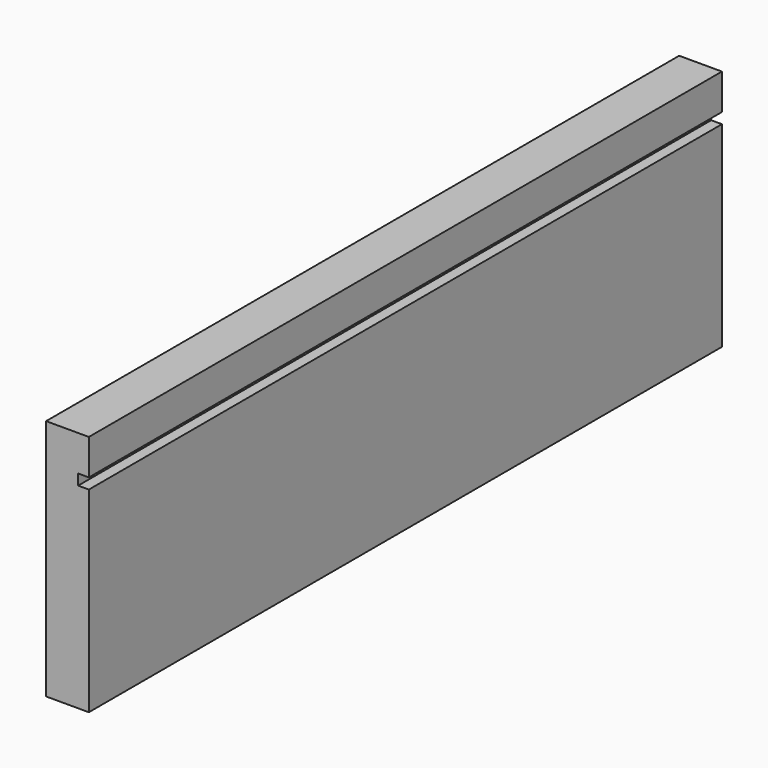
from build123d import *

# Parameters (mm, degrees)
F0_W     = 222
F0_H     = 68
F1_DEPTH = 12
F2_W     = 3
F2_H     = 3
F3_DEPTH = 31343.6


with BuildPart() as f1:
    # F0 (on Right) → F1 (new body)
    with BuildSketch(Plane.YZ):
        Rectangle(F0_W, F0_H)
    extrude(amount=F1_DEPTH)

    # F2 (on face) → F3 (cut)
    with BuildSketch(Plane.XZ.offset(111)):
        with Locations((10.5, 22.5)):
            Rectangle(F2_W, F2_H)
    extrude(amount=-F3_DEPTH, mode=Mode.SUBTRACT)


solid = f1.part
